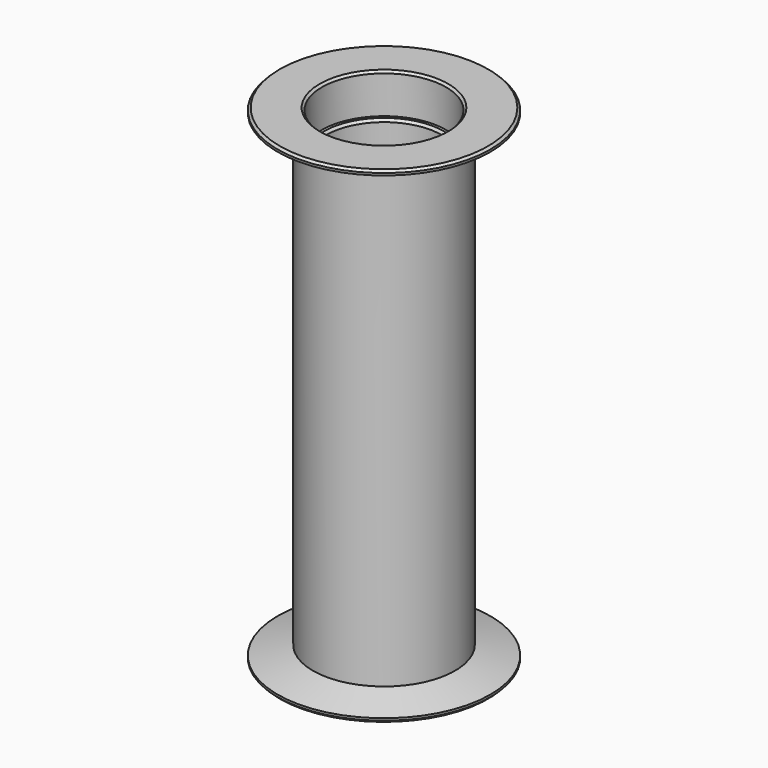
from build123d import *

# Parameters (mm, degrees)
F3_SIZE = 0.5
F4_SIZE = 0.5


with BuildPart() as f2:
    # F1 (on Front) → F2 (revolve)
    with BuildSketch(Plane.XZ):
        Polygon((-16.05, 0), (-13.05, 0), (-13.05, 45.823673), (-14.05, 46), (-14.05, 55), (-24.05, 55), (-24.05, 54), (-16.05, 51.856406), align=None)
        Polygon((-24.05, -55), (-14.05, -55), (-14.05, -46), (-13.05, -45.823673), (-13.05, 0), (-16.05, 0), (-16.05, -51.856406), (-24.05, -54), align=None)
    revolve(axis=Axis((0, 0, 37.963357), (0, 0, 1)))

    # F3
    f3_edges = [f2.edges().sort_by_distance(p)[0] for p in [
        (14.05, 0, -55),
        (14.05, 0, 55),
        (24.05, 0, -55),
        (24.05, 0, 55),
    ]]
    chamfer(f3_edges, length=F3_SIZE)

    # F4
    f4_edges = [f2.edges().sort_by_distance(p)[0] for p in [
        (13.05, 0, 45.823673),
        (13.05, 0, -45.823673),
    ]]
    chamfer(f4_edges, length=F4_SIZE)


solid = f2.part
